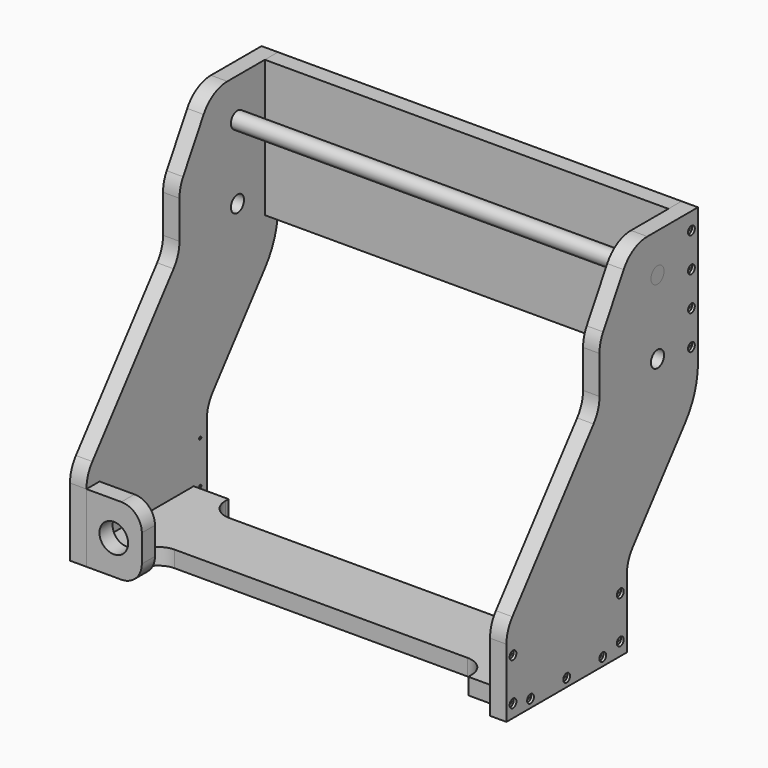
from build123d import *

# Parameters (mm, degrees)
F0_W      = 295
F0_H      = 100
F1_DEPTH  = 12
F3_DEPTH  = 12
F4_R      = 5.975
F4_R_2    = 1
F5_DEPTH  = 25
F6_R      = 6
F7_DEPTH  = 319
F8_R      = 1
F8_R_2    = 5.975
F9_DEPTH  = 12
F10_R     = 3.1
F11_DEPTH = 2
F12_R     = 3.1
F13_DEPTH = 2
F14_R     = 10.475
F15_DEPTH = 12
F17_DEPTH = 12


with BuildPart() as f1:
    # F0 (on Front) → F1 (new body)
    with BuildSketch(Plane.XZ):
        with Locations((0, 50)):
            Rectangle(F0_W, F0_H)
    extrude(amount=F1_DEPTH)


with BuildPart() as f3:
    # F2 (on face) → F3 (new body)
    with BuildSketch(Plane(origin=(-147.5, 0, 0), x_dir=(0, -1, 0), z_dir=(-1, 0, 0))):
        with BuildLine():
            Line((46.26463, 100), (0, 100))
            Line((0, 100), (0, 0))
            ThreePointArc((0, 0), (3.049708, -18.060097), (11.860622, -34.117358))
            Line((11.860622, -34.117358), (59.608808, -94.49211))
            ThreePointArc((59.608808, -94.49211), (63.613769, -101.790865), (65, -110))
            Line((65, -110), (65, -160))
            Line((65, -160), (175, -160))
            Line((175, -160), (175, -110))
            ThreePointArc((175, -110), (173.613769, -101.790865), (169.608808, -94.49211))
            Line((169.608808, -94.49211), (95.391192, -0.648331))
            ThreePointArc((95.391192, -0.648331), (91.386231, 6.650424), (90, 14.859559))
            Line((90, 14.859559), (90, 42.549387))
            ThreePointArc((90, 42.549387), (89.148146, 49.019863), (86.650635, 55.049387))
            Line((86.650635, 55.049387), (67.915265, 87.5))
            ThreePointArc((67.915265, 87.5), (58.76463, 96.650635), (46.26463, 100))
        make_face()
    extrude(amount=F3_DEPTH)

    # F4 (on face) → F5 (cut)
    with BuildSketch(Plane.YZ.offset(-147.5)):
        with Locations((-37, 17.5)):
            Circle(F4_R)
        with Locations((-37, 71.5)):
            Circle(F4_R)
        with Locations((-6, 87.5)):
            Circle(F4_R_2)
        with Locations((-6, 62.5)):
            Circle(F4_R_2)
        with Locations((-6, 37.5)):
            Circle(F4_R_2)
        with Locations((-6, 12.5)):
            Circle(F4_R_2)
        with Locations((-87, -154)):
            Circle(F4_R_2)
        with Locations((-120, -154)):
            Circle(F4_R_2)
        with Locations((-153, -154)):
            Circle(F4_R_2)
        with Locations((-169, -150.5)):
            Circle(F4_R_2)
        with Locations((-169, -119.5)):
            Circle(F4_R_2)
        with Locations((-71, -119.5)):
            Circle(F4_R_2)
        with Locations((-71, -150.5)):
            Circle(F4_R_2)
    extrude(amount=-F5_DEPTH, mode=Mode.SUBTRACT)

    # F10 (on face) → F11 (cut)
    with BuildSketch(Plane(origin=(-159.5, 0, 0), x_dir=(0, -1, 0), z_dir=(-1, 0, 0))):
        with Locations((6, 87.5)):
            Circle(F10_R)
        with Locations((6, 62.5)):
            Circle(F10_R)
        with Locations((6, 37.5)):
            Circle(F10_R)
        with Locations((6, 12.5)):
            Circle(F10_R)
        with Locations((87, -154)):
            Circle(F10_R)
        with Locations((120, -154)):
            Circle(F10_R)
        with Locations((153, -154)):
            Circle(F10_R)
        with Locations((71, -150.5)):
            Circle(F10_R)
        with Locations((71, -119.5)):
            Circle(F10_R)
        with Locations((169, -119.5)):
            Circle(F10_R)
        with Locations((169, -150.5)):
            Circle(F10_R)
    extrude(amount=-F11_DEPTH, mode=Mode.SUBTRACT)


with BuildPart() as f7:
    # F6 (on face) → F7 (new body)
    with BuildSketch(Plane(origin=(-159.5, 0, 0), x_dir=(0, -1, 0), z_dir=(-1, 0, 0))):
        with Locations((37, 71.5)):
            Circle(F6_R)
    extrude(amount=-F7_DEPTH)


with BuildPart() as f9:
    # F8 (on face) → F9 (new body)
    with BuildSketch(Plane.YZ.offset(147.5)):
        with BuildLine():
            Line((-59.608808, -94.49211), (-11.860622, -34.117358))
            ThreePointArc((-11.860622, -34.117358), (-3.049708, -18.060097), (0, 0))
            Line((0, 0), (0, 100))
            Line((0, 100), (-46.26463, 100))
            ThreePointArc((-46.26463, 100), (-58.76463, 96.650635), (-67.915265, 87.5))
            Line((-67.915265, 87.5), (-86.650635, 55.049387))
            ThreePointArc((-86.650635, 55.049387), (-89.148146, 49.019863), (-90, 42.549387))
            Line((-90, 42.549387), (-90, 14.859559))
            ThreePointArc((-90, 14.859559), (-91.386231, 6.650424), (-95.391192, -0.648331))
            Line((-95.391192, -0.648331), (-169.608808, -94.49211))
            ThreePointArc((-169.608808, -94.49211), (-173.613769, -101.790865), (-175, -110))
            Line((-175, -110), (-175, -160))
            Line((-175, -160), (-65, -160))
            Line((-65, -160), (-65, -110))
            ThreePointArc((-65, -110), (-63.613769, -101.790865), (-59.608808, -94.49211))
        make_face()
        with Locations((-169, -150.5)):
            Circle(F8_R, mode=Mode.SUBTRACT)
        with Locations((-153, -154)):
            Circle(F8_R, mode=Mode.SUBTRACT)
        with Locations((-169, -119.5)):
            Circle(F8_R, mode=Mode.SUBTRACT)
        with Locations((-120, -154)):
            Circle(F8_R, mode=Mode.SUBTRACT)
        with Locations((-87, -154)):
            Circle(F8_R, mode=Mode.SUBTRACT)
        with Locations((-71, -150.5)):
            Circle(F8_R, mode=Mode.SUBTRACT)
        with Locations((-71, -119.5)):
            Circle(F8_R, mode=Mode.SUBTRACT)
        with Locations((-37, 17.5)):
            Circle(F8_R_2, mode=Mode.SUBTRACT)
        with Locations((-6, 12.5)):
            Circle(F8_R, mode=Mode.SUBTRACT)
        with Locations((-6, 37.5)):
            Circle(F8_R, mode=Mode.SUBTRACT)
        with Locations((-6, 62.5)):
            Circle(F8_R, mode=Mode.SUBTRACT)
        with Locations((-37, 71.5)):
            Circle(F8_R_2, mode=Mode.SUBTRACT)
        with Locations((-6, 87.5)):
            Circle(F8_R, mode=Mode.SUBTRACT)
    extrude(amount=F9_DEPTH)

    # F12 (on face) → F13 (cut)
    with BuildSketch(Plane.YZ.offset(159.5)):
        with Locations((-6, 87.5)):
            Circle(F12_R)
        with Locations((-6, 62.5)):
            Circle(F12_R)
        with Locations((-6, 37.5)):
            Circle(F12_R)
        with Locations((-6, 12.5)):
            Circle(F12_R)
        with Locations((-153, -154)):
            Circle(F12_R)
        with Locations((-120, -154)):
            Circle(F12_R)
        with Locations((-87, -154)):
            Circle(F12_R)
        with Locations((-71, -150.5)):
            Circle(F12_R)
        with Locations((-71, -119.5)):
            Circle(F12_R)
        with Locations((-169, -150.5)):
            Circle(F12_R)
        with Locations((-169, -119.5)):
            Circle(F12_R)
    extrude(amount=-F13_DEPTH, mode=Mode.SUBTRACT)


with BuildPart() as f15:
    # F14 (on face) → F15 (new body)
    with BuildSketch(Plane.XZ.offset(175)):
        with BuildLine():
            Line((-147.5, -110), (-147.5, -160))
            Line((-147.5, -160), (-122, -160))
            ThreePointArc((-122, -160), (-111.393398, -155.606602), (-107, -145))
            Line((-107, -145), (-107, -125))
            ThreePointArc((-107, -125), (-111.393398, -114.393398), (-122, -110))
            Line((-122, -110), (-147.5, -110))
        make_face()
        with Locations((-127.5, -135)):
            Circle(F14_R, mode=Mode.SUBTRACT)
    extrude(amount=-F15_DEPTH)


with BuildPart() as f17:
    # F16 (on face) → F17 (new body)
    with BuildSketch(Plane(origin=(0, 0, -160), x_dir=(1, 0, 0), z_dir=(0, 0, -1))):
        with BuildLine():
            Line((0, 145), (-107, 145))
            ThreePointArc((-107, 145), (-117.606602, 149.393398), (-122, 160))
            Line((-122, 160), (-122, 163))
            Line((-122, 163), (-147.5, 163))
            Line((-147.5, 163), (-147.5, 120))
            Line((-147.5, 120), (-147.5, 77))
            Line((-147.5, 77), (-122, 77))
            Line((-122, 77), (-122, 80))
            ThreePointArc((-122, 80), (-117.606602, 90.606602), (-107, 95))
            Line((-107, 95), (0, 95))
            Line((0, 95), (107, 95))
            ThreePointArc((107, 95), (117.606602, 90.606602), (122, 80))
            Line((122, 80), (122, 77))
            Line((122, 77), (147.5, 77))
            Line((147.5, 77), (147.5, 120))
            Line((147.5, 120), (147.5, 163))
            Line((147.5, 163), (122, 163))
            Line((122, 163), (122, 160))
            ThreePointArc((122, 160), (117.606602, 149.393398), (107, 145))
            Line((107, 145), (0, 145))
        make_face()
    extrude(amount=-F17_DEPTH)


solid = Compound([f1.part, f3.part, f7.part, f9.part, f15.part, f17.part])
